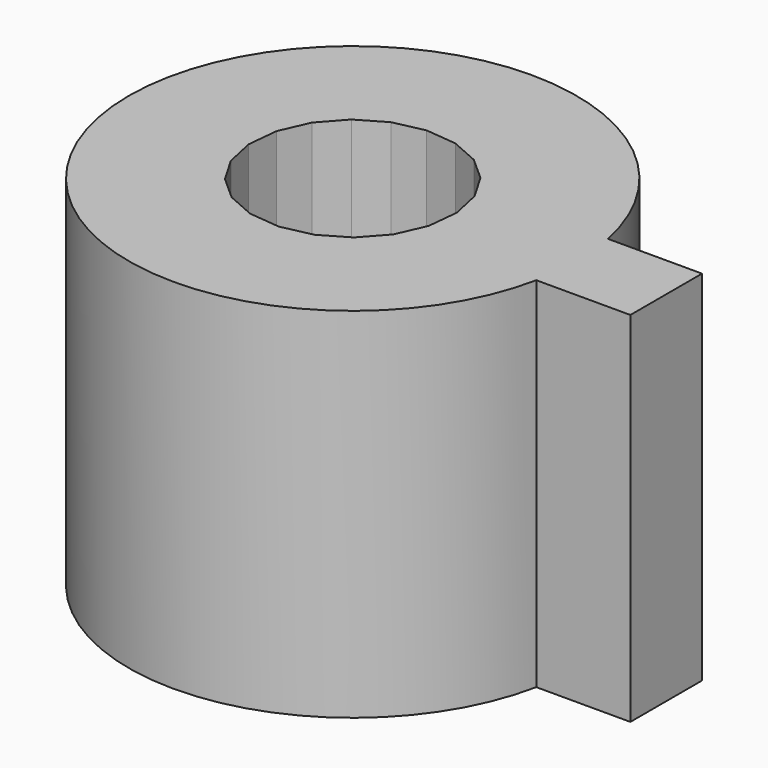
from build123d import *

# Parameters (mm, degrees)
F1_DEPTH = 40
F3_DEPTH = 50


with BuildPart() as f1:
    # F0 (on Top) → F1 (new body)
    with BuildSketch(Plane.XY):
        with BuildLine():
            Line((35, 5), (24.494897, 5))
            ThreePointArc((24.494897, 5), (-25, 0), (24.494897, -5))
            Line((24.494897, -5), (35, -5))
            Line((35, -5), (35, 5))
        make_face()
    extrude(amount=F1_DEPTH)

    # F2 (on face) → F3 (cut)
    with BuildSketch(Plane.XY.offset(40)):
        Polygon((-10.379426, -4.037681), (-8.623709, -7.047482), (-6.023843, -9.367426), (-2.834321, -10.770422), (0.632644, -11.119133), (4.037681, -10.379426), (7.047482, -8.623709), (9.367426, -6.023843), (10.770422, -2.834321), (11.119133, 0.632644), (10.379426, 4.037681), (8.623709, 7.047482), (6.023843, 9.367426), (2.834321, 10.770422), (-0.632644, 11.119133), (-4.037681, 10.379426), (-7.047482, 8.623709), (-9.367426, 6.023843), (-10.770422, 2.834321), (-11.119133, -0.632644), align=None)
    extrude(amount=-F3_DEPTH, mode=Mode.SUBTRACT)


solid = f1.part
